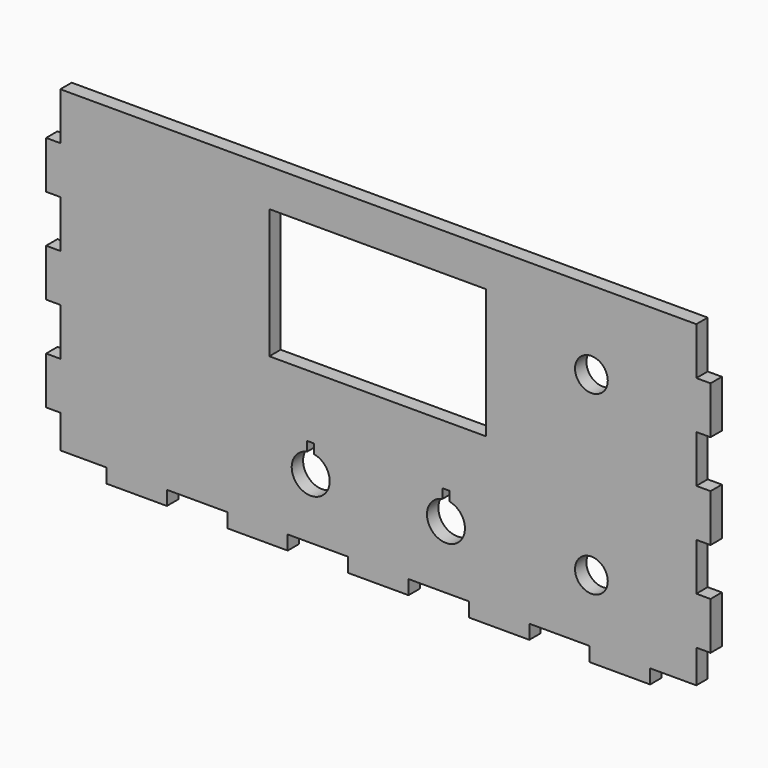
from build123d import *

# Parameters (mm, degrees)
F0_R     = 3.45
F0_W     = 45.7
F0_H     = 27.3
F1_DEPTH = 3


with BuildPart() as f1:
    # F0 (on Front) → F1 (new body)
    with BuildSketch(Plane.XZ):
        Polygon((67.121079, 25.141054), (67.121079, 35.141054), (-66.878921, 35.141054), (-66.878921, 25.141054), (-69.878921, 25.141054), (-69.878921, 15.141054), (-66.878921, 15.141054), (-66.878921, 5.141054), (-69.878921, 5.141054), (-69.878921, -4.858946), (-66.878921, -4.858946), (-66.878921, -14.858946), (-69.878921, -14.858946), (-69.878921, -24.858946), (-66.878921, -24.858946), (-66.878921, -31.858946), (-57.151648, -31.858946), (-57.151648, -34.858946), (-44.424375, -34.858946), (-44.424375, -31.858946), (-31.697103, -31.858946), (-31.697103, -34.858946), (-18.96983, -34.858946), (-18.96983, -31.858946), (-6.242557, -31.858946), (-6.242557, -34.858946), (6.484715, -34.858946), (6.484715, -31.858946), (19.211988, -31.858946), (19.211988, -34.858946), (31.939261, -34.858946), (31.939261, -31.858946), (44.666534, -31.858946), (44.666534, -34.858946), (57.393806, -34.858946), (57.393806, -31.858946), (67.121079, -31.858946), (67.121079, -24.858946), (70.121079, -24.858946), (70.121079, -14.858946), (67.121079, -14.858946), (67.121079, -4.858946), (70.121079, -4.858946), (70.121079, 5.141054), (67.121079, 5.141054), (67.121079, 15.141054), (70.121079, 15.141054), (70.121079, 25.141054), align=None)
        with BuildLine():
            ThreePointArc((-13.375674, -15.179424), (-14.125674, -23.108483), (-14.875674, -15.179424))
            Line((-14.875674, -15.179424), (-14.875674, -13.179424))
            Line((-14.875674, -13.179424), (-13.375674, -13.179424))
            Line((-13.375674, -13.179424), (-13.375674, -15.179424))
        make_face(mode=Mode.SUBTRACT)
        with BuildLine():
            ThreePointArc((15.124326, -14.676172), (14.374326, -22.60523), (13.624326, -14.676172))
            Line((13.624326, -14.676172), (13.624326, -12.676172))
            Line((13.624326, -12.676172), (15.124326, -12.676172))
            Line((15.124326, -12.676172), (15.124326, -14.676172))
        make_face(mode=Mode.SUBTRACT)
        with Locations((45.021079, -18.60523)):
            Circle(F0_R, mode=Mode.SUBTRACT)
        with Locations((0, 13.573291)):
            Rectangle(F0_W, F0_H, mode=Mode.SUBTRACT)
        with Locations((45.021079, 18.60523)):
            Circle(F0_R, mode=Mode.SUBTRACT)
    extrude(amount=F1_DEPTH)


solid = f1.part
